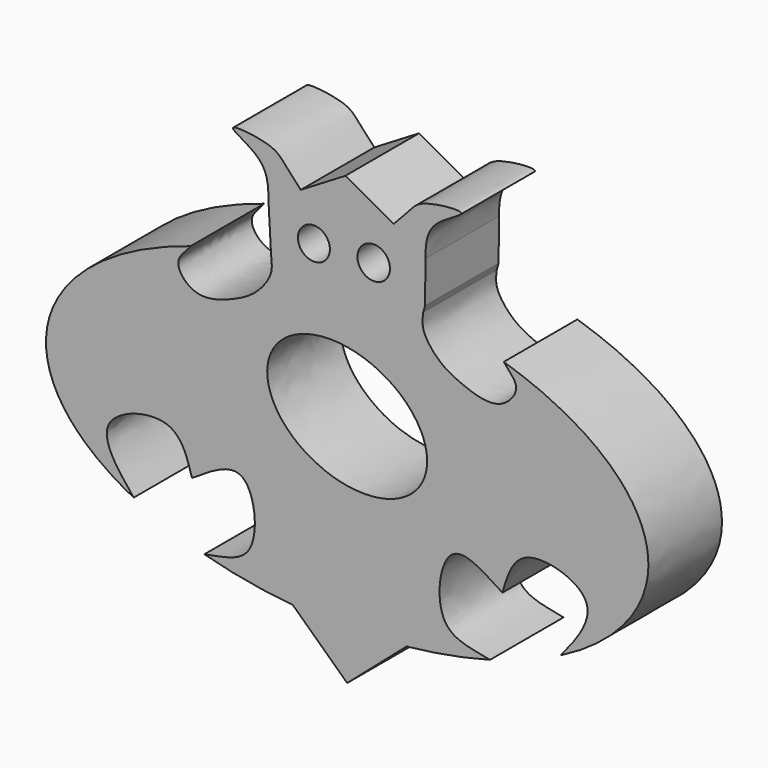
from build123d import *

# Parameters (mm, degrees)
F0_R     = 4.343536077
F0_R_2   = 4.4212681919
F1_DEPTH = 25
F3_DEPTH = 89.1


with BuildPart() as f1:
    # F0 (on Front) → F1 (new body)
    with BuildSketch(Plane.XZ):
        with BuildLine():
            add(Edge.make_bspline(
                [(-42.5789955947, 35.7237389808), (-44.1290673891, 33.7271293909), (-47.8727718839, 30.9738019057), (-41.4075391544, 23.1554651105), (-31.2618393067, 26.4780976478), (-24.9313776529, 29.7369479228), (-20.4387838067, 35.5054320295), (-20.3836122993, 38.2198165173), (-20.6747909206, 40.4650942553)],
                knots=[0, 0, 0, 0, 0.1567901334, 0.3252925003, 0.5240942378, 0.6974189313, 0.8583526187, 1, 1, 1, 1], degree=3))
            add(Edge.make_bspline(
                [(-42.5789955947, 35.7237389808), (-131.3958555945, 8.1234439542), (-58.045860883, -29.5026875001)],
                knots=[5.2591044043, 5.2591044043, 5.2591044043, 7.0662813777, 7.0662813777, 7.0662813777], degree=2, weights=[1, 0.6187950138, 1]))
            add(Edge.make_bspline(
                [(-58.045860883, -29.5026875001), (-62.604514395, -24.0053786584), (-71.2887374681, -12.5660216125), (-46.4685514653, -5.0852349895), (-43.5541548833, -15.0097510878), (-42.2145798802, -19.6536183357)],
                knots=[0, 0, 0, 0, 0.3498804264, 0.6952337889, 1, 1, 1, 1], degree=3))
            add(Edge.make_bspline(
                [(-42.2145798802, -19.6536183357), (-36.8901871826, -16.1486790794), (-26.1316292472, -8.8921175573), (-23.0049349937, -35.1250507645), (-33.6602260852, -35.6917728883), (-38.8450818012, -36.8164820556)],
                knots=[0, 0, 0, 0, 0.3296131125, 0.6803909908, 1, 1, 1, 1], degree=3))
            add(Edge.make_bspline(
                [(-38.8450818012, -36.8164820556), (-27.4804000382, -39.9427833875), (-14.7834080706, -41.1325707736)],
                knots=[1.0766348496, 1.0766348496, 1.0766348496, 1.3892979187, 1.3892979187, 1.3892979187], degree=2, weights=[1, 0.9878050925, 1]))
            Line((-14.7834080706, -41.1325707736), (0, -55.0068765879))
            Line((0, -55.0068765879), (16.1289498237, -41.0005352266))
            add(Edge.make_bspline(
                [(16.1289498237, -41.0005352266), (28.0977145218, -39.7729668337), (38.8450818011, -36.8164820556)],
                knots=[1.7690244559, 1.7690244559, 1.7690244559, 2.0649578039, 2.0649578039, 2.0649578039], degree=2, weights=[1, 0.9890728902, 1]))
            add(Edge.make_bspline(
                [(42.2145798802, -19.6536183357), (36.890427794, -16.148837469), (26.1305856867, -8.8667391985), (23.0029790845, -35.1285857295), (33.661278201, -35.6920011154), (38.8450818011, -36.8164820556)],
                knots=[0, 0, 0, 0, 0.3295982171, 0.6804558461, 1, 1, 1, 1], degree=3))
            add(Edge.make_bspline(
                [(58.045860883, -29.5026875001), (62.604514395, -24.0053786584), (71.2887374681, -12.5660216125), (46.4685514653, -5.0852349895), (43.5541548833, -15.0097510878), (42.2145798802, -19.6536183357)],
                knots=[0, 0, 0, 0, 0.3498804264, 0.6952337889, 1, 1, 1, 1], degree=3))
            add(Edge.make_bspline(
                [(58.045860883, -29.5026875001), (131.3958555945, 8.1234439542), (42.5789955947, 35.7237389808)],
                knots=[2.3584965831, 2.3584965831, 2.3584965831, 4.1656735565, 4.1656735565, 4.1656735565], degree=2, weights=[1, 0.6187950138, 1]))
            add(Edge.make_bspline(
                [(42.5789955947, 35.7237389808), (44.1290673891, 33.7271293909), (47.8727718839, 30.9738019057), (41.4075391544, 23.1554651105), (31.2618393067, 26.4780976478), (24.9313776529, 29.7369479228), (20.4387838067, 35.5054320295), (20.3836122993, 38.2198165173), (20.6747909206, 40.4650942553)],
                knots=[0, 0, 0, 0, 0.1567901334, 0.3252925003, 0.5240942378, 0.6974189313, 0.8583526187, 1, 1, 1, 1], degree=3))
            Line((20.6747909206, 40.4650942553), (21.1781824952, 42.2227854591))
            Line((21.1781824952, 42.2227854591), (21.2737702686, 53.4955488263))
            add(Edge.make_bspline(
                [(21.2737702686, 53.4955488263), (21.3335687415, 56.7143197433), (21.4506722073, 63.0176450902), (36.4300998889, 68.8816457515), (20.1085893276, 67.3088863882), (17.2450849236, 63.9019002613), (14.2430967269, 60.6986959544), (12.6687599094, 59.0206331345)],
                knots=[0, 0, 0, 0, 0.2193370606, 0.4295281924, 0.6518746091, 0.8159282522, 0.994276585, 0.994276585, 0.994276585, 0.994276585], degree=3))
            Line((12.6687599094, 59.0206331345), (-0.4656925801, 66.2739425835))
            Line((-0.4656925801, 66.2739425835), (-12.617480804, 58.9461281244))
            add(Edge.make_bspline(
                [(-21.4110287852, 53.6434116143), (-21.4485260469, 56.8625195697), (-21.5219570074, 63.1665049396), (-36.4603991598, 69.1341429553), (-20.150176442, 67.4483452466), (-17.2815643601, 63.9868742512), (-14.2306537236, 60.6895778393), (-12.617480804, 58.9461281244)],
                knots=[0, 0, 0, 0, 0.2193370606, 0.4295281924, 0.6518746091, 0.8159282522, 1, 1, 1, 1], degree=3))
            Line((-21.4110287852, 53.6434116143), (-20.6747909206, 40.4650942553))
        make_face()
        with Locations((-9.0425144881, 47.2728945315)):
            Circle(F0_R, mode=Mode.SUBTRACT)
        with Locations((7.2111207992, 47.9596704245)):
            Circle(F0_R_2, mode=Mode.SUBTRACT)
    extrude(amount=F1_DEPTH)

    # F2 (on Front) → F3 (cut)
    with BuildSketch(Plane.XZ):
        with BuildLine():
            add(Edge.make_bspline(
                [(-5.6086485274, -6.2954216264), (30.7782901362, -19.8026943036), (20.9977935955, 9.6144605886), (11.2172970548, 39.0316154808), (-15.3891450681, 23.1217332658), (-41.995587191, 7.2118510508), (-5.6086485274, -6.2954216264)],
                knots=[4.7123889804, 4.7123889804, 4.7123889804, 6.8067840828, 6.8067840828, 8.9011791852, 8.9011791852, 10.9955742876, 10.9955742876, 10.9955742876], degree=2, weights=[1, 0.5, 1, 0.5, 1, 0.5, 1]))
        make_face()
    extrude(amount=F3_DEPTH, mode=Mode.SUBTRACT)


solid = f1.part
